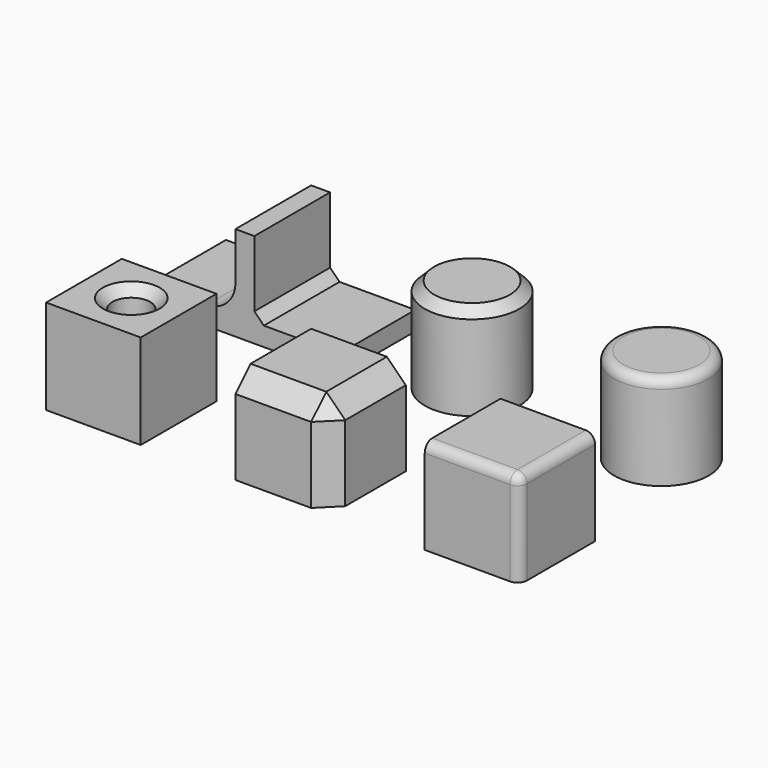
from build123d import *

# Parameters (mm, degrees)
BOX002_W          = 10
BOX002_H          = 10
BOX002_DEPTH      = 10
FILLET_R          = 1
BOX001_W          = 10
BOX001_H          = 10
BOX001_DEPTH      = 10
CHAMFER_SIZE      = 2
CYLINDER_R        = 2
CYLINDER_DEPTH    = 5
BOX_W             = 10
BOX_H             = 10
BOX_DEPTH         = 10
CHAMFER001_SIZE   = 1
CYLINDER001_R     = 5
CYLINDER001_DEPTH = 10
FILLET001_R       = 1
CYLINDER002_R     = 5
CYLINDER002_DEPTH = 10
CHAMFER002_SIZE   = 1
BOX003_W          = 20
BOX003_H          = 10
BOX003_DEPTH      = 2
BOX004_W          = 2
BOX004_H          = 10
BOX004_DEPTH      = 10
CHAMFER003_SIZE   = 1
FILLET002_R       = 3


with BuildPart() as fillet_body:
    # Box002 → Box002 (new body)
    with BuildSketch(Plane(origin=(40, 0, 0), x_dir=(1, 0, 0), z_dir=(0, 0, 1))):
        with Locations((5, 5)):
            Rectangle(BOX002_W, BOX002_H)
    extrude(amount=BOX002_DEPTH)

    # Fillet
    fillet_edges = [fillet_body.edges().sort_by_distance(p)[0] for p in [
        (50, 0, 5),
        (50, 5, 10),
        (45, 0, 10),
    ]]
    fillet(fillet_edges, radius=FILLET_R)


with BuildPart() as chamfer_body:
    # Box001 → Box001 (new body)
    with BuildSketch(Plane(origin=(20, 0, 0), x_dir=(1, 0, 0), z_dir=(0, 0, 1))):
        with Locations((5, 5)):
            Rectangle(BOX001_W, BOX001_H)
    extrude(amount=BOX001_DEPTH)

    # Chamfer
    chamfer_edges = [chamfer_body.edges().sort_by_distance(p)[0] for p in [
        (30, 0, 5),
        (30, 5, 10),
        (25, 0, 10),
    ]]
    chamfer(chamfer_edges, length=CHAMFER_SIZE)


with BuildPart() as cilindre:
    # Cylinder → Cylinder (new body)
    with BuildSketch(Plane(origin=(5, 5, 5), x_dir=(1, 0, 0), z_dir=(0, 0, 1))):
        Circle(CYLINDER_R)
    extrude(amount=CYLINDER_DEPTH)


with BuildPart() as chamfer001:
    # Box → Box (new body)
    with BuildSketch(Plane.XY):
        with Locations((5, 5)):
            Rectangle(BOX_W, BOX_H)
    extrude(amount=BOX_DEPTH)

    # Cut: cut Cilindre
    add(cilindre.part, mode=Mode.SUBTRACT)

    # Chamfer001
    chamfer001_edges = [chamfer001.edges().sort_by_distance(p)[0] for p in [
        (3, 5, 10),
    ]]
    chamfer(chamfer001_edges, length=CHAMFER001_SIZE)


with BuildPart() as fillet001:
    # Cylinder001 → Cylinder001 (new body)
    with BuildSketch(Plane(origin=(45, 25, 0), x_dir=(1, 0, 0), z_dir=(0, 0, 1))):
        Circle(CYLINDER001_R)
    extrude(amount=CYLINDER001_DEPTH)

    # Fillet001
    fillet001_edges = [fillet001.edges().sort_by_distance(p)[0] for p in [
        (40, 25, 10),
    ]]
    fillet(fillet001_edges, radius=FILLET001_R)


with BuildPart() as chamfer002:
    # Cylinder002 → Cylinder002 (new body)
    with BuildSketch(Plane(origin=(25, 25, 0), x_dir=(1, 0, 0), z_dir=(0, 0, 1))):
        Circle(CYLINDER002_R)
    extrude(amount=CYLINDER002_DEPTH)

    # Chamfer002
    chamfer002_edges = [chamfer002.edges().sort_by_distance(p)[0] for p in [
        (20, 25, 10),
    ]]
    chamfer(chamfer002_edges, length=CHAMFER002_SIZE)


with BuildPart() as cub001:
    # Box003 → Box003 (new body)
    with BuildSketch(Plane(origin=(-5, 20, 0), x_dir=(1, 0, 0), z_dir=(0, 0, 1))):
        with Locations((10, 5)):
            Rectangle(BOX003_W, BOX003_H)
    extrude(amount=BOX003_DEPTH)


with BuildPart() as fillet002:
    # Box004 → Box004 (new body)
    with BuildSketch(Plane(origin=(4, 20, 0), x_dir=(1, 0, 0), z_dir=(0, 0, 1))):
        with Locations((1, 5)):
            Rectangle(BOX004_W, BOX004_H)
    extrude(amount=BOX004_DEPTH)

    # Fusion: union Cub001
    add(cub001.part)

    # Chamfer003
    chamfer003_edges = [fillet002.edges().sort_by_distance(p)[0] for p in [
        (6, 25, 2),
    ]]
    chamfer(chamfer003_edges, length=CHAMFER003_SIZE)

    # Fillet002
    fillet002_edges = [fillet002.edges().sort_by_distance(p)[0] for p in [
        (4, 25, 2),
    ]]
    fillet(fillet002_edges, radius=FILLET002_R)


solid = Compound([fillet_body.part, chamfer_body.part, chamfer001.part, fillet001.part, chamfer002.part, fillet002.part])
